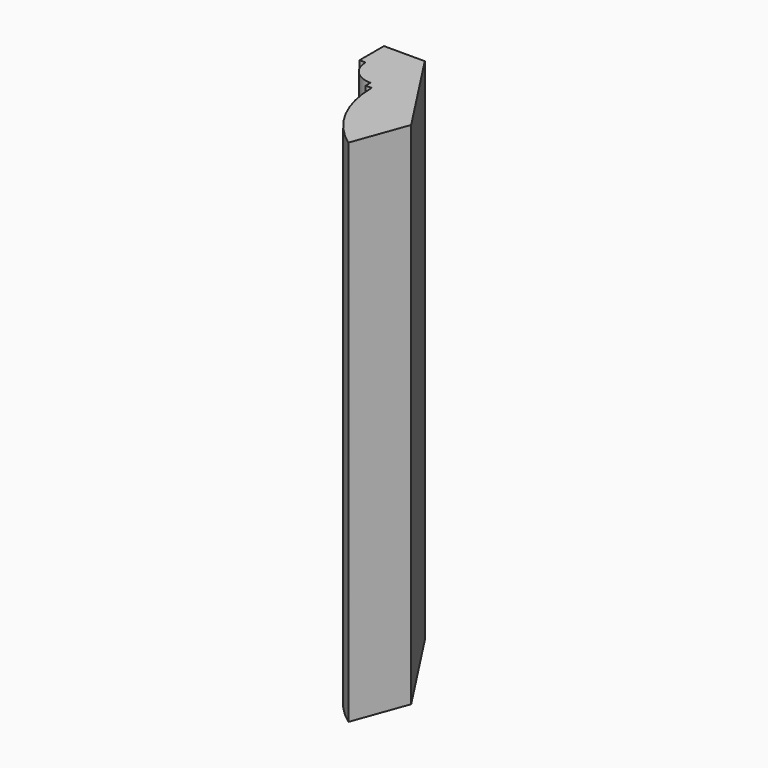
from build123d import *


with BuildPart() as f3:
    # F3: sweep along a path in F2
    with BuildLine(Plane.XZ.offset(105.8403934839)) as f3_path:
        Line((-38.3972818889, 0), (-38.3972818889, 1000))
    # F0 (on Top) → F3 (sweep)
    with BuildSketch(Plane.XY):
        with BuildLine():
            Line((-38.3972818889, -105.8403934839), (0, 0))
            Line((0, 0), (-115.8749862256, 178.1249802876))
            Line((-115.8749862256, 178.1249802876), (-195.8749862256, 178.1249802876))
            Line((-195.8749862256, 178.1249802876), (-195.8749862256, 118.1249802876))
            Line((-195.8749862256, 118.1249802876), (-183.8749862256, 118.1249802876))
            ThreePointArc((-183.8749862256, 118.1249802876), (-169.8161117226, 84.1838547906), (-135.8749862256, 70.1249802876))
            Line((-135.8749862256, 70.1249802876), (-135.8749862256, 58.1249802876))
            Line((-135.8749862256, 58.1249802876), (-123.8749862256, 58.1249802876))
            ThreePointArc((-123.8749862256, 58.1249802876), (-101.2227507064, -34.329172857), (-38.3972818889, -105.8403934839))
        make_face()
    sweep(path=f3_path.line)


solid = f3.part
